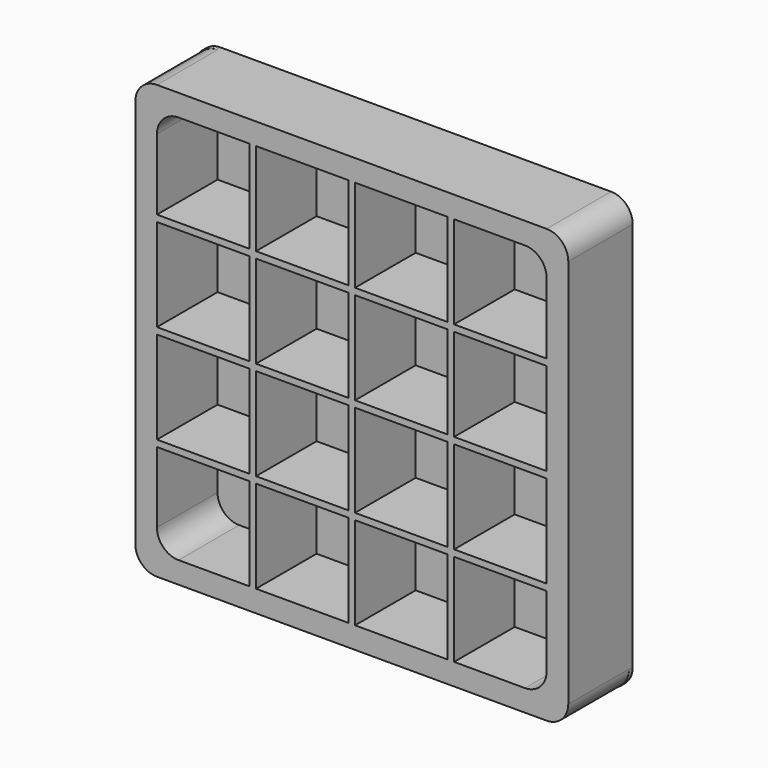
from build123d import *

# Parameters (mm, degrees)
F0_W     = 427.5
F0_H     = 30
F0_W_2   = 30
F0_H_2   = 427.5
F1_DEPTH = 350
F3_DEPTH = 22


with BuildPart() as f1:
    # F0 (on Front) → F1 (new body)
    with BuildSketch(Plane.XZ):
        with BuildLine():
            Line((386.3346025348, 1120.6153738732), (-1413.6653974652, 1120.6153738732))
            ThreePointArc((-1413.6653974652, 1120.6153738732), (-1484.3760755839, 1091.3260519918), (-1513.6653974652, 1020.6153738732))
            Line((-1513.6653974652, 1020.6153738732), (-1513.6653974652, -779.3846261268))
            ThreePointArc((-1513.6653974652, -779.3846261268), (-1484.3760755839, -850.0953042455), (-1413.6653974652, -879.3846261268))
            Line((-1413.6653974652, -879.3846261268), (386.3346025348, -879.3846261268))
            ThreePointArc((386.3346025348, -879.3846261268), (457.0452806534, -850.0953042455), (486.3346025348, -779.3846261268))
            Line((486.3346025348, -779.3846261268), (486.3346025348, 1020.6153738732))
            ThreePointArc((486.3346025348, 1020.6153738732), (457.0452806534, 1091.3260519918), (386.3346025348, 1120.6153738732))
        make_face()
        with BuildLine():
            ThreePointArc((-1413.6653974652, 920.6153738732), (-1384.3760755839, 991.3260519918), (-1313.6653974652, 1020.6153738732))
            Line((-1313.6653974652, 1020.6153738732), (-986.1653974652, 1020.6153738732))
            Line((-986.1653974652, 1020.6153738732), (-956.1653974652, 1020.6153738732))
            Line((-956.1653974652, 1020.6153738732), (-528.6653974652, 1020.6153738732))
            Line((-528.6653974652, 1020.6153738732), (-498.6653974652, 1020.6153738732))
            Line((-498.6653974652, 1020.6153738732), (-71.1653974652, 1020.6153738732))
            Line((-71.1653974652, 1020.6153738732), (-41.1653974652, 1020.6153738732))
            Line((-41.1653974652, 1020.6153738732), (286.3346025348, 1020.6153738732))
            ThreePointArc((286.3346025348, 1020.6153738732), (357.0452806534, 991.3260519918), (386.3346025348, 920.6153738732))
            Line((386.3346025348, 920.6153738732), (386.3346025348, 593.1153738732))
            Line((386.3346025348, 593.1153738732), (386.3346025348, 563.1153738732))
            Line((386.3346025348, 563.1153738732), (386.3346025348, 135.6153738732))
            Line((386.3346025348, 135.6153738732), (386.3346025348, 105.6153738732))
            Line((386.3346025348, 105.6153738732), (386.3346025348, -321.8846261268))
            Line((386.3346025348, -321.8846261268), (386.3346025348, -351.8846261268))
            Line((386.3346025348, -351.8846261268), (386.3346025348, -679.3846261268))
            ThreePointArc((386.3346025348, -679.3846261268), (357.0452806534, -750.0953042455), (286.3346025348, -779.3846261268))
            Line((286.3346025348, -779.3846261268), (-41.1653974652, -779.3846261268))
            Line((-41.1653974652, -779.3846261268), (-71.1653974652, -779.3846261268))
            Line((-71.1653974652, -779.3846261268), (-498.6653974652, -779.3846261268))
            Line((-498.6653974652, -779.3846261268), (-528.6653974652, -779.3846261268))
            Line((-528.6653974652, -779.3846261268), (-956.1653974652, -779.3846261268))
            Line((-956.1653974652, -779.3846261268), (-986.1653974652, -779.3846261268))
            Line((-986.1653974652, -779.3846261268), (-1313.6653974652, -779.3846261268))
            ThreePointArc((-1313.6653974652, -779.3846261268), (-1384.3760755839, -750.0953042455), (-1413.6653974652, -679.3846261268))
            Line((-1413.6653974652, -679.3846261268), (-1413.6653974652, -351.8846261268))
            Line((-1413.6653974652, -351.8846261268), (-1413.6653974652, -321.8846261268))
            Line((-1413.6653974652, -321.8846261268), (-1413.6653974652, 105.6153738732))
            Line((-1413.6653974652, 105.6153738732), (-1413.6653974652, 135.6153738732))
            Line((-1413.6653974652, 135.6153738732), (-1413.6653974652, 563.1153738732))
            Line((-1413.6653974652, 563.1153738732), (-1413.6653974652, 593.1153738732))
            Line((-1413.6653974652, 593.1153738732), (-1413.6653974652, 920.6153738732))
        make_face(mode=Mode.SUBTRACT)
        with Locations((-742.4153974652, 578.1153738732)):
            Rectangle(F0_W, F0_H)
        with Locations((-1199.9153974652, 578.1153738732)):
            Rectangle(F0_W, F0_H)
        with Locations((-971.1653974652, 806.8653738732)):
            Rectangle(F0_W_2, F0_H_2)
        with Locations((-971.1653974652, 578.1153738732)):
            Rectangle(F0_W_2, F0_H)
        with Locations((-513.6653974652, 806.8653738732)):
            Rectangle(F0_W_2, F0_H_2)
        with Locations((-513.6653974652, 578.1153738732)):
            Rectangle(F0_W_2, F0_H)
        with Locations((-284.9153974652, 578.1153738732)):
            Rectangle(F0_W, F0_H)
        with Locations((-56.1653974652, 806.8653738732)):
            Rectangle(F0_W_2, F0_H_2)
        with Locations((-56.1653974652, 578.1153738732)):
            Rectangle(F0_W_2, F0_H)
        with Locations((172.5846025348, 578.1153738732)):
            Rectangle(F0_W, F0_H)
        with Locations((-56.1653974652, 349.3653738732)):
            Rectangle(F0_W_2, F0_H_2)
        with Locations((-513.6653974652, 349.3653738732)):
            Rectangle(F0_W_2, F0_H_2)
        with Locations((-971.1653974652, 349.3653738732)):
            Rectangle(F0_W_2, F0_H_2)
        with Locations((-1199.9153974652, 120.6153738732)):
            Rectangle(F0_W, F0_H)
        with Locations((-971.1653974652, 120.6153738732)):
            Rectangle(F0_W_2, F0_H)
        with Locations((-742.4153974652, 120.6153738732)):
            Rectangle(F0_W, F0_H)
        with Locations((-284.9153974652, 120.6153738732)):
            Rectangle(F0_W, F0_H)
        with Locations((-513.6653974652, 120.6153738732)):
            Rectangle(F0_W_2, F0_H)
        with Locations((-56.1653974652, 120.6153738732)):
            Rectangle(F0_W_2, F0_H)
        with Locations((172.5846025348, 120.6153738732)):
            Rectangle(F0_W, F0_H)
        with Locations((-56.1653974652, -336.8846261268)):
            Rectangle(F0_W_2, F0_H)
        with Locations((-513.6653974652, -336.8846261268)):
            Rectangle(F0_W_2, F0_H)
        with Locations((-971.1653974652, -336.8846261268)):
            Rectangle(F0_W_2, F0_H)
        with Locations((-971.1653974652, -108.1346261268)):
            Rectangle(F0_W_2, F0_H_2)
        with Locations((-513.6653974652, -108.1346261268)):
            Rectangle(F0_W_2, F0_H_2)
        with Locations((-742.4153974652, -336.8846261268)):
            Rectangle(F0_W, F0_H)
        with Locations((-284.9153974652, -336.8846261268)):
            Rectangle(F0_W, F0_H)
        with Locations((172.5846025348, -336.8846261268)):
            Rectangle(F0_W, F0_H)
        with Locations((-56.1653974652, -108.1346261268)):
            Rectangle(F0_W_2, F0_H_2)
        with Locations((-56.1653974652, -565.6346261268)):
            Rectangle(F0_W_2, F0_H_2)
        with Locations((-513.6653974652, -565.6346261268)):
            Rectangle(F0_W_2, F0_H_2)
        with Locations((-971.1653974652, -565.6346261268)):
            Rectangle(F0_W_2, F0_H_2)
        with Locations((-1199.9153974652, -336.8846261268)):
            Rectangle(F0_W, F0_H)
    extrude(amount=F1_DEPTH)

    # F2 (on face) → F3 (join)
    with BuildSketch(Plane(origin=(0, 0, 0), x_dir=(-1, 0, 0), z_dir=(0, 1, 0))):
        with BuildLine():
            Line((1418.2799100876, 1120.6153738732), (-386.3346025348, 1120.6153738732))
            ThreePointArc((-386.3346025348, 1120.6153738732), (-457.0452806534, 1091.3260519918), (-486.3346025348, 1020.6153738732))
            Line((-486.3346025348, 1020.6153738732), (-486.3346025348, -781.5458416939))
            ThreePointArc((-486.3346025348, -781.5458416939), (-457.0452806534, -852.2565198125), (-386.3346025348, -881.5458416939))
            Line((-386.3346025348, -881.5458416939), (1418.2799100876, -881.5458416939))
            ThreePointArc((1418.2799100876, -881.5458416939), (1488.9905882062, -852.2565198125), (1518.2799100876, -781.5458416939))
            Line((1518.2799100876, -781.5458416939), (1518.2799100876, 1020.6153738732))
            ThreePointArc((1518.2799100876, 1020.6153738732), (1488.9905882062, 1091.3260519918), (1418.2799100876, 1120.6153738732))
        make_face()
    extrude(amount=F3_DEPTH)


solid = f1.part
